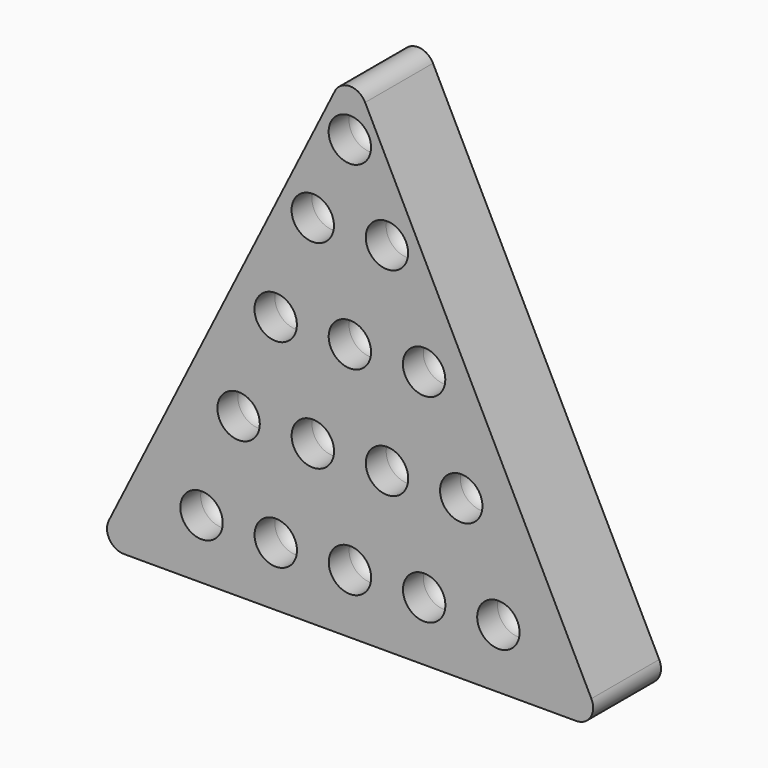
from build123d import *

# Parameters (mm, degrees)
F1_DEPTH  = 25.4
F2_R      = 6.35
F3_DEPTH  = 12.7
F4_R      = 6.35
F5_DEPTH  = 12.7
F6_R      = 6.35
F7_DEPTH  = 12.7
F8_R      = 6.35
F9_DEPTH  = 12.7
F10_R     = 6.35
F11_DEPTH = 12.7
F12_R     = 5.08
F13_R     = 5.08
F14_R     = 5.08
F15_R     = 5.08


with BuildPart() as f1:
    # F0 (on Front) → F1 (new body)
    with BuildSketch(Plane.XZ):
        Polygon((0, 75.713523), (-75.904474, -75.904481), (75.975695, -75.855606), align=None)
    extrude(amount=F1_DEPTH)

    # F2 (on face) → F3 (cut)
    with BuildSketch(Plane.XZ.offset(25.4)):
        with Locations((-44.449998, -58.114358)):
            Circle(F2_R)
        with Locations((44.449998, -58.08575)):
            Circle(F2_R)
        with Locations((0, -58.100079)):
            Circle(F2_R)
        with Locations((-22.224999, -58.107206)):
            Circle(F2_R)
        with Locations((22.224999, -58.092902)):
            Circle(F2_R)
    extrude(amount=-F3_DEPTH, mode=Mode.SUBTRACT)

    # F4 (on face) → F5 (cut)
    with BuildSketch(Plane.XZ.offset(25.4)):
        with Locations((-33.347069, -28.368981)):
            Circle(F4_R)
        with Locations((33.327927, -28.347525)):
            Circle(F4_R)
        with Locations((-11.122037, -28.361841)):
            Circle(F4_R)
        with Locations((11.102895, -28.354689)):
            Circle(F4_R)
    extrude(amount=-F5_DEPTH, mode=Mode.SUBTRACT)

    # F6 (on face) → F7 (cut)
    with BuildSketch(Plane.XZ.offset(25.4)):
        with Locations((-22.244107, 1.376384)):
            Circle(F6_R)
        with Locations((-0.019142, 1.383549)):
            Circle(F6_R)
        with Locations((22.205823, 1.390688)):
            Circle(F6_R)
    extrude(amount=-F7_DEPTH, mode=Mode.SUBTRACT)

    # F8 (on face) → F9 (cut)
    with BuildSketch(Plane.XZ.offset(25.4)):
        with Locations((-11.141212, 31.121774)):
            Circle(F8_R)
        with Locations((11.083787, 31.128926)):
            Circle(F8_R)
    extrude(amount=-F9_DEPTH, mode=Mode.SUBTRACT)

    # F10 (on face) → F11 (cut)
    with BuildSketch(Plane.XZ.offset(25.4)):
        with Locations((-0.036515, 55.369961)):
            Circle(F10_R)
    extrude(amount=-F11_DEPTH, mode=Mode.SUBTRACT)

    # F12
    f12_edges = [f1.edges().sort_by_distance(p)[0] for p in [
        (-75.904474, -12.7, -75.904481),
    ]]
    fillet(f12_edges, radius=F12_R)

    # F13
    f13_edges = [f1.edges().sort_by_distance(p)[0] for p in [
        (75.975695, -12.7, -75.855606),
    ]]
    fillet(f13_edges, radius=F13_R)

    # F14
    f14_edges = [f1.edges().sort_by_distance(p)[0] for p in [
        (0, -12.7, 75.713523),
    ]]
    fillet(f14_edges, radius=F14_R)

    # F15
    f15_edges = [f1.edges().sort_by_distance(p)[0] for p in [
        (4.733787, -12.7, 31.128926),
        (-6.386515, -12.7, 55.369961),
        (-17.491212, -12.7, 31.121774),
        (-28.594107, -12.7, 1.376384),
        (-6.369142, -12.7, 1.383549),
        (15.855823, -12.7, 1.390688),
        (26.977927, -12.7, -28.347525),
        (4.752895, -12.7, -28.354689),
        (-17.472037, -12.7, -28.361841),
        (-39.697069, -12.7, -28.368981),
        (38.099998, -12.7, -58.08575),
        (15.874999, -12.7, -58.092902),
        (-6.35, -12.7, -58.100079),
        (-28.574999, -12.7, -58.107206),
        (-50.799998, -12.7, -58.114358),
    ]]
    fillet(f15_edges, radius=F15_R)


solid = f1.part
